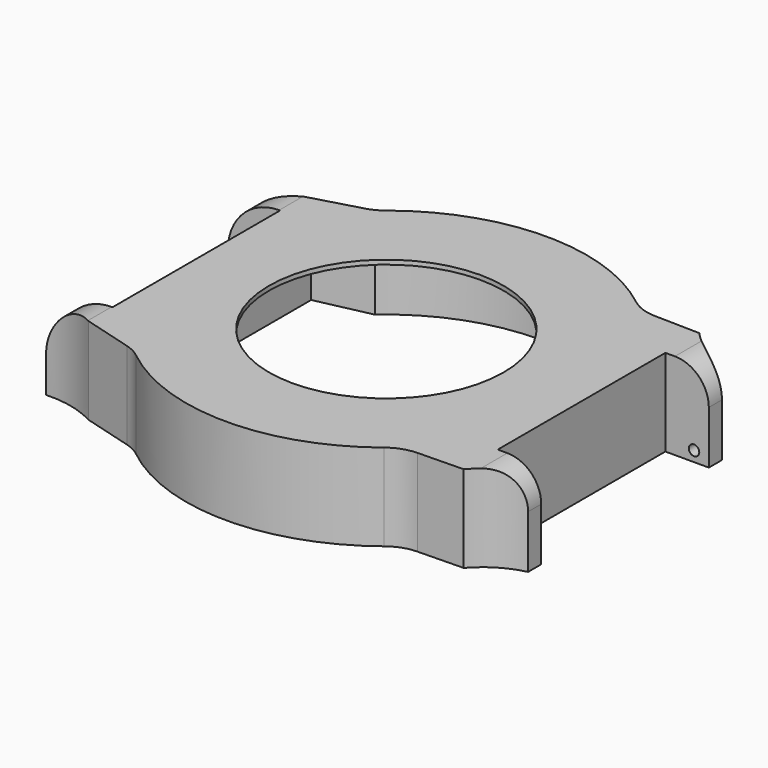
from build123d import *

# Parameters (mm, degrees)
PAD_DEPTH       = 10
POCKET_DEPTH    = 9.5
SKETCH002_R     = 13.5
POCKET001_DEPTH = 1
SKETCH003_W     = 4.9
SKETCH003_H     = 10
PAD001_DEPTH    = 5
POCKET002_DEPTH = 10
SKETCH008_R     = 0.6
POCKET003_DEPTH = 2
SKETCH009_R     = 0.6
POCKET004_DEPTH = 2
FILLET_R        = 3.9
FILLET001_R     = 3.9
FILLET002_R     = 5
FILLET003_R     = 5
FILLET004_R     = 5
FILLET005_R     = 5
SKETCH010_W     = 3.45
SKETCH010_H     = 10
PAD002_DEPTH    = 6
POCKET005_DEPTH = 10
SKETCH012_R     = 0.6
POCKET006_DEPTH = 2
SKETCH013_R     = 0.6
POCKET007_DEPTH = 2
FILLET006_R     = 5.9
FILLET007_R     = 5.9


with BuildPart() as part:
    # Sketch → Pad (new body)
    with BuildSketch(Plane.XY):
        with BuildLine():
            Line((-21.862293, 15.5), (-21.862293, -15.5))
            Line((-21.862293, -15.5), (-15.125083, -17.4))
            ThreePointArc((-15.125083, -17.4), (0.226102, -23.053785), (15.463446, -17.1))
            Line((15.463446, -17.1), (22.461838, -16.95))
            Line((22.461838, 16.95), (22.461838, -16.95))
            Line((15.463446, 17.1), (22.461838, 16.95))
            ThreePointArc((15.463446, 17.1), (0.226102, 23.053785), (-15.125083, 17.4))
            Line((-21.862293, 15.5), (-15.125083, 17.4))
        make_face()
    extrude(amount=PAD_DEPTH)

    # Sketch001 → Pocket (cut)
    with BuildSketch(Plane.XY):
        with BuildLine():
            Line((-14.55, 16.55), (-20.805997, 15.2))
            Line((-20.805997, 15.2), (-20.805997, -15.2))
            Line((-20.805997, -15.2), (-14.55, -16.55))
            ThreePointArc((-14.55, -16.55), (0, -22.036447), (14.55, -16.55))
            Line((14.55, -16.55), (21.832857, -16.05))
            Line((21.832857, 16.05), (21.832857, -16.05))
            Line((14.55, 16.55), (21.832857, 16.05))
            ThreePointArc((14.55, 16.55), (0, 22.036447), (-14.55, 16.55))
        make_face()
    extrude(amount=POCKET_DEPTH, mode=Mode.SUBTRACT)

    # Sketch002 (on Face19 of Pocket) → Pocket001 (cut)
    with BuildSketch(Plane(origin=(0, 0, 9.5), x_dir=(1, 0, 0), z_dir=(0, 0, -1))):
        Circle(SKETCH002_R)
    extrude(amount=-POCKET001_DEPTH, mode=Mode.SUBTRACT)

    # Sketch003 (on Face6 of Pocket001) → Pad001 (join)
    with BuildSketch(Plane.YZ.offset(22.461838)):
        with Locations((-14.5, 5)):
            Rectangle(SKETCH003_W, SKETCH003_H)
        with Locations((14.5, 5)):
            Rectangle(SKETCH003_W, SKETCH003_H)
    extrude(amount=PAD001_DEPTH)

    # Sketch006 → Pocket002 (cut)
    with BuildSketch(Plane.XY.offset(10)):
        with BuildLine():
            ThreePointArc((22.461838, 16.95), (24.723382, 15.046575), (27.461838, 13.93371))
            Line((27.461838, 16.95), (27.461838, 13.93371))
            Line((27.461838, 16.95), (22.461838, 16.95))
        make_face()
        with BuildLine():
            ThreePointArc((27.461838, -13.93371), (24.723382, -15.046575), (22.461838, -16.95))
            Line((27.461838, -16.95), (22.461838, -16.95))
            Line((27.461838, -13.93371), (27.461838, -16.95))
        make_face()
    extrude(amount=-POCKET002_DEPTH, mode=Mode.SUBTRACT)

    # Sketch008 (on Face27 of Pocket002) → Pocket003 (cut)
    with BuildSketch(Plane(origin=(0, -12.05, 0), x_dir=(-1, 0, 0), z_dir=(0, 1, 0))):
        with Locations((-25.761838, 1.2)):
            Circle(SKETCH008_R)
    extrude(amount=-POCKET003_DEPTH, mode=Mode.SUBTRACT)

    # Sketch009 (on Face26 of Pocket003) → Pocket004 (cut)
    with BuildSketch(Plane.XZ.offset(-12.05)):
        with Locations((25.761838, 1.2)):
            Circle(SKETCH009_R)
    extrude(amount=-POCKET004_DEPTH, mode=Mode.SUBTRACT)

    # Fillet
    fillet_edges = [part.edges().sort_by_distance(p)[0] for p in [
        (27.461838, -12.991855, 10),
    ]]
    fillet(fillet_edges, radius=FILLET_R)

    # Fillet001
    fillet001_edges = [part.edges().sort_by_distance(p)[0] for p in [
        (27.461838, 12.991855, 10),
    ]]
    fillet(fillet001_edges, radius=FILLET001_R)

    # Fillet002
    fillet002_edges = [part.edges().sort_by_distance(p)[0] for p in [
        (15.463446, -17.1, 5),
    ]]
    fillet(fillet002_edges, radius=FILLET002_R)

    # Fillet003
    fillet003_edges = [part.edges().sort_by_distance(p)[0] for p in [
        (15.463446, 17.1, 5),
    ]]
    fillet(fillet003_edges, radius=FILLET003_R)

    # Fillet004
    fillet004_edges = [part.edges().sort_by_distance(p)[0] for p in [
        (-15.125083, -17.4, 5),
    ]]
    fillet(fillet004_edges, radius=FILLET004_R)

    # Fillet005
    fillet005_edges = [part.edges().sort_by_distance(p)[0] for p in [
        (-15.125083, 17.4, 5),
    ]]
    fillet(fillet005_edges, radius=FILLET005_R)

    # Sketch010 (on Face4 of Fillet005) → Pad002 (join)
    with BuildSketch(Plane(origin=(-21.862293, 0, 0), x_dir=(0, -1, 0), z_dir=(-1, 0, 0))):
        with Locations((-13.775, 5)):
            Rectangle(SKETCH010_W, SKETCH010_H)
        with Locations((13.775, 5)):
            Rectangle(SKETCH010_W, SKETCH010_H)
    extrude(amount=PAD002_DEPTH)

    # Sketch011 (on Face6 of Pad002) → Pocket005 (cut)
    with BuildSketch(Plane.XY.offset(10)):
        with BuildLine():
            ThreePointArc((-27.862293, 14.1), (-24.766364, 14.388874), (-21.862293, 15.5))
            Line((-21.862293, 15.5), (-27.862293, 15.5))
            Line((-27.862293, 15.5), (-27.862293, 14.1))
        make_face()
        with BuildLine():
            ThreePointArc((-21.862293, -15.5), (-24.766364, -14.388874), (-27.862293, -14.1))
            Line((-27.862293, -14.1), (-27.862293, -15.5))
            Line((-27.862293, -15.5), (-21.862293, -15.5))
        make_face()
    extrude(amount=-POCKET005_DEPTH, mode=Mode.SUBTRACT)

    # Sketch012 (on Face23 of Pocket005) → Pocket006 (cut)
    with BuildSketch(Plane(origin=(0, -12.05, 0), x_dir=(-1, 0, 0), z_dir=(0, 1, 0))):
        with Locations((26.162293, 1.2)):
            Circle(SKETCH012_R)
    extrude(amount=-POCKET006_DEPTH, mode=Mode.SUBTRACT)

    # Sketch013 (on Face21 of Pocket006) → Pocket007 (cut)
    with BuildSketch(Plane.XZ.offset(-12.05)):
        with Locations((-26.162293, 1.2)):
            Circle(SKETCH013_R)
    extrude(amount=-POCKET007_DEPTH, mode=Mode.SUBTRACT)

    # Fillet006
    fillet006_edges = [part.edges().sort_by_distance(p)[0] for p in [
        (-27.862293, 13.075, 10),
    ]]
    fillet(fillet006_edges, radius=FILLET006_R)

    # Fillet007
    fillet007_edges = [part.edges().sort_by_distance(p)[0] for p in [
        (-27.862293, -13.075, 10),
    ]]
    fillet(fillet007_edges, radius=FILLET007_R)


solid = part.part
